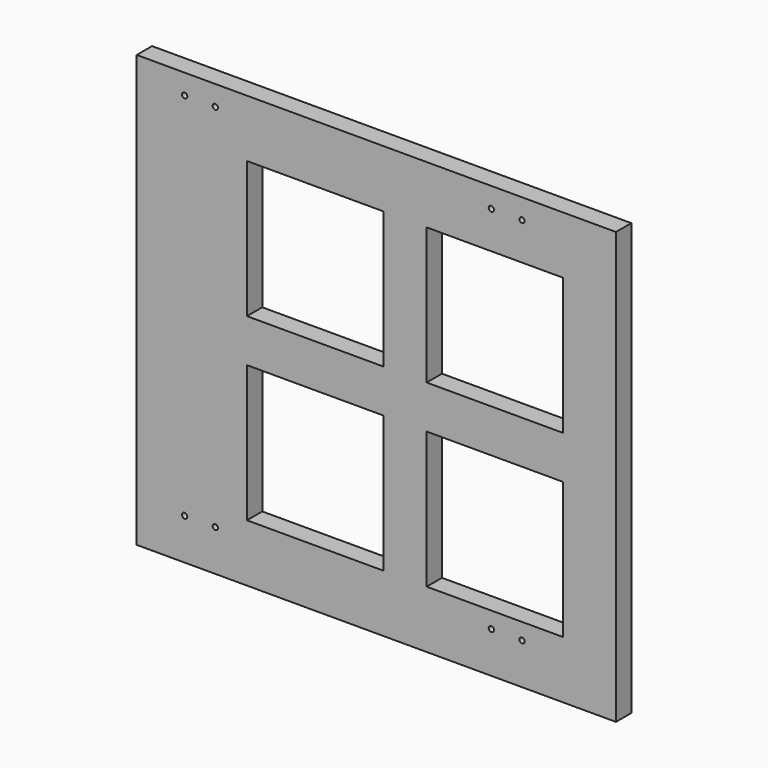
from build123d import *

# Parameters (mm, degrees)
F0_W     = 500
F0_H     = 450
F0_R     = 2.75
F0_W_2   = 45
F0_H_2   = 142.5
F0_W_3   = 142.5
F0_H_3   = 45
F1_DEPTH = 20


with BuildPart() as f1:
    # F0 (on Front) → F1 (new body)
    with BuildSketch(Plane.XZ):
        with Locations((-30, 0)):
            Rectangle(F0_W, F0_H)
        with Locations((-230, -182)):
            Circle(F0_R, mode=Mode.SUBTRACT)
        with Locations((-198, -182)):
            Circle(F0_R, mode=Mode.SUBTRACT)
        with Locations((90, -182)):
            Circle(F0_R, mode=Mode.SUBTRACT)
        with Locations((122, -182)):
            Circle(F0_R, mode=Mode.SUBTRACT)
        with Locations((-230, 204)):
            Circle(F0_R, mode=Mode.SUBTRACT)
        with Locations((-198, 204)):
            Circle(F0_R, mode=Mode.SUBTRACT)
        Polygon((-165, 22.5), (-165, 165), (-22.5, 165), (22.5, 165), (165, 165), (165, 22.5), (165, -22.5), (165, -165), (22.5, -165), (-22.5, -165), (-165, -165), (-165, -22.5), align=None, mode=Mode.SUBTRACT)
        with Locations((90, 204)):
            Circle(F0_R, mode=Mode.SUBTRACT)
        with Locations((122, 204)):
            Circle(F0_R, mode=Mode.SUBTRACT)
        with Locations((0, 93.75)):
            Rectangle(F0_W_2, F0_H_2)
        with Locations((-93.75, 0)):
            Rectangle(F0_W_3, F0_H_3)
        with Locations((0, -93.75)):
            Rectangle(F0_W_2, F0_H_2)
        with Locations((93.75, 0)):
            Rectangle(F0_W_3, F0_H_3)
        Rectangle(F0_W_2, F0_H_3)
    extrude(amount=F1_DEPTH)


solid = f1.part
